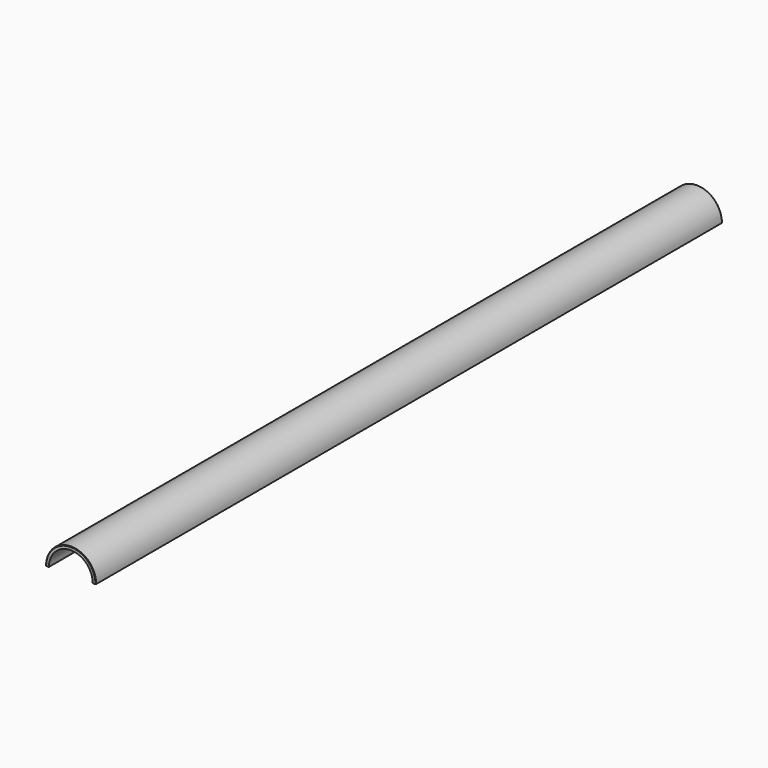
from build123d import *

# Parameters (mm, degrees)
F1_DEPTH = 3175
F2_SIZE  = 1.778


with BuildPart() as f1:
    # F0 (on Front) → F1 (new body)
    with BuildSketch(Plane.XZ):
        with BuildLine():
            Line((90.945219, 0), (103.645219, 0))
            ThreePointArc((103.645219, 0), (2.045219, 101.6), (-99.554781, 0))
            Line((-99.554781, 0), (-86.854781, 0))
            ThreePointArc((-86.854781, 0), (2.045219, 88.9), (90.945219, 0))
        make_face()
    extrude(amount=F1_DEPTH)

    # F2
    f2_edges = [f1.edges().sort_by_distance(p)[0] for p in [
        (2.045219, 0, 101.6),
        (2.045219, -3175, 101.6),
    ]]
    chamfer(f2_edges, length=F2_SIZE)


solid = f1.part
